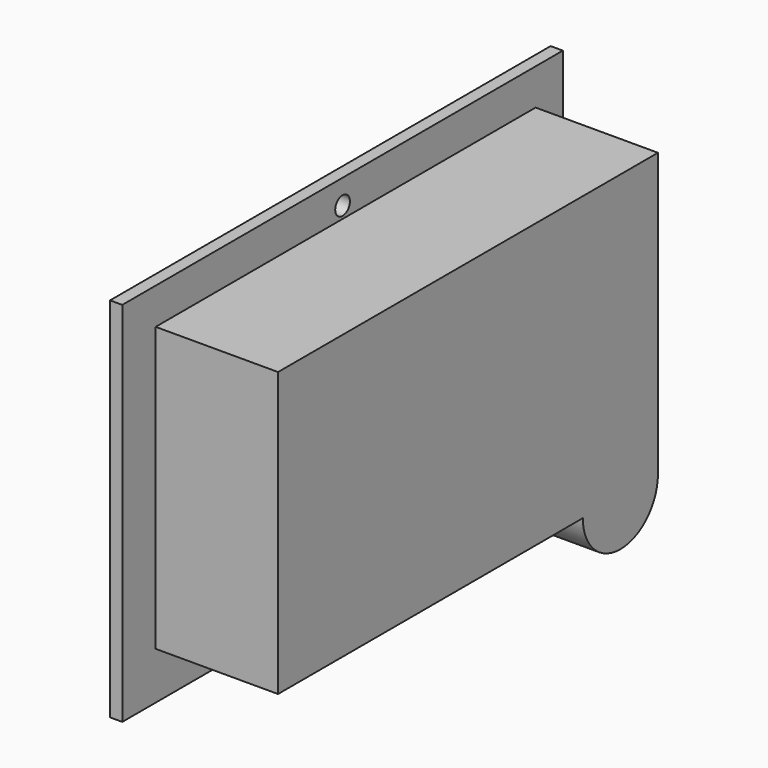
from build123d import *

# Parameters (mm, degrees)
F0_W     = 45
F0_H     = 30
F0_R     = 0.75
F1_DEPTH = 1
F3_DEPTH = 10


with BuildPart() as f1:
    # F0 (on Right) → F1 (new body)
    with BuildSketch(Plane.YZ):
        with Locations((22.5, 15)):
            Rectangle(F0_W, F0_H)
        with Locations((22.5, 2)):
            Circle(F0_R, mode=Mode.SUBTRACT)
        with Locations((22.5, 28)):
            Circle(F0_R, mode=Mode.SUBTRACT)
    extrude(amount=F1_DEPTH)

    # F2 (on face) → F3 (join)
    with BuildSketch(Plane.YZ.offset(1)):
        with BuildLine():
            Line((42.216498, 27.034795), (3.409794, 27.034795))
            Line((3.409794, 27.034795), (3.409794, 3.871003))
            Line((3.409794, 3.871003), (34.534011, 3.871003))
            ThreePointArc((34.534011, 3.871003), (38.41285, 0.07055), (42.213303, 3.949389))
            Line((42.213303, 3.949389), (42.216498, 3.949389))
            Line((42.216498, 3.949389), (42.216498, 27.034795))
        make_face()
    extrude(amount=F3_DEPTH)


solid = f1.part
